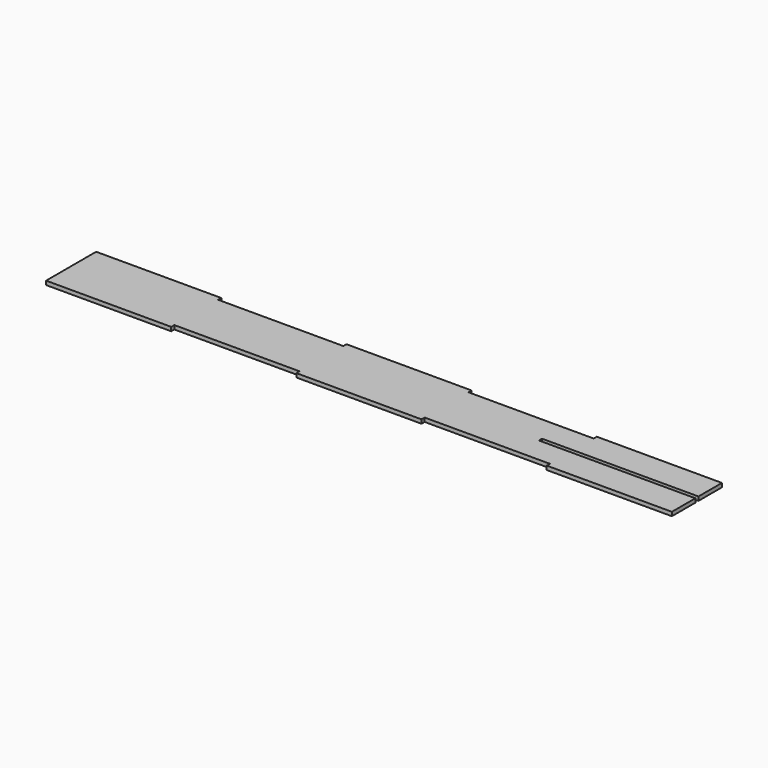
from build123d import *

# Parameters (mm, degrees)
F0_W     = 508
F0_H     = 50.8
F1_DEPTH = 3.175
F2_W     = 101.6
F2_H     = 3.175
F3_DEPTH = 25.4
F4_W     = 101.6
F4_H     = 3.175
F5_DEPTH = 25.4
F6_W     = 127
F6_H     = 3.175
F7_DEPTH = 25.4


with BuildPart() as f1:
    # F0 (on Top) → F1 (new body)
    with BuildSketch(Plane.XY):
        with Locations((254, 25.4)):
            Rectangle(F0_W, F0_H)
        with Locations((254, 25.4)):
            Rectangle(F0_W, F0_H)
    extrude(amount=F1_DEPTH)

    # F2 (on face) → F3 (cut)
    with BuildSketch(Plane.XY.offset(3.175)):
        with Locations((152.4, 1.5875)):
            Rectangle(F2_W, F2_H)
        with Locations((355.6, 1.5875)):
            Rectangle(F2_W, F2_H)
    extrude(amount=-F3_DEPTH, mode=Mode.SUBTRACT)

    # F4 (on face) → F5 (cut)
    with BuildSketch(Plane.XY.offset(3.175)):
        with Locations((152.4, 49.2125)):
            Rectangle(F4_W, F4_H)
        with Locations((355.6, 49.2125)):
            Rectangle(F4_W, F4_H)
    extrude(amount=-F5_DEPTH, mode=Mode.SUBTRACT)

    # F6 (on face) → F7 (cut)
    with BuildSketch(Plane.XY.offset(3.175)):
        with Locations((444.5, 25.4)):
            Rectangle(F6_W, F6_H)
    extrude(amount=-F7_DEPTH, mode=Mode.SUBTRACT)


solid = f1.part
